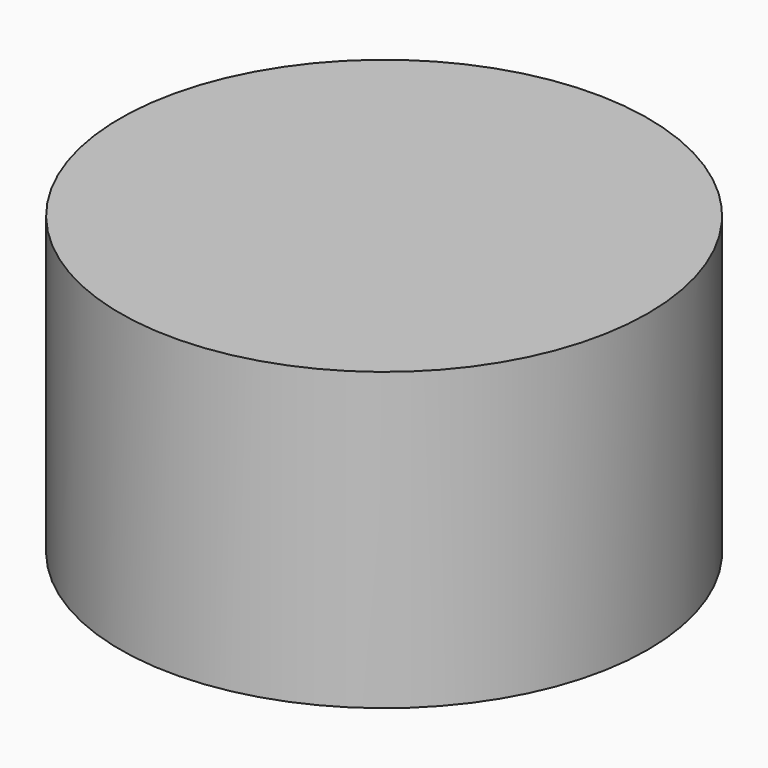
from build123d import *

# Parameters (mm, degrees)
F0_R      = 93.952715
F1_DEPTH  = 381
F1_FACE_R = 93.952715
F2_DEPTH  = 76.2
F3_R      = 89.547505
F4_DEPTH  = 100.42847


with BuildPart() as f1:
    # F0 (on Top) → F1 (new body)
    with BuildSketch(Plane.XY):
        Circle(F0_R)
    extrude(amount=F1_DEPTH)

    # F1_face (on face) → F2 (cut)
    with BuildSketch(Plane.XY.offset(381)):
        Circle(F1_FACE_R)
    extrude(amount=-F2_DEPTH, mode=Mode.SUBTRACT)

    # F3 (on face) → F4 (intersect)
    with BuildSketch(Plane(origin=(0, 0, 0), x_dir=(1, 0, 0), z_dir=(0, 0, -1))):
        Circle(F3_R)
    extrude(amount=-F4_DEPTH, mode=Mode.INTERSECT)


solid = f1.part
